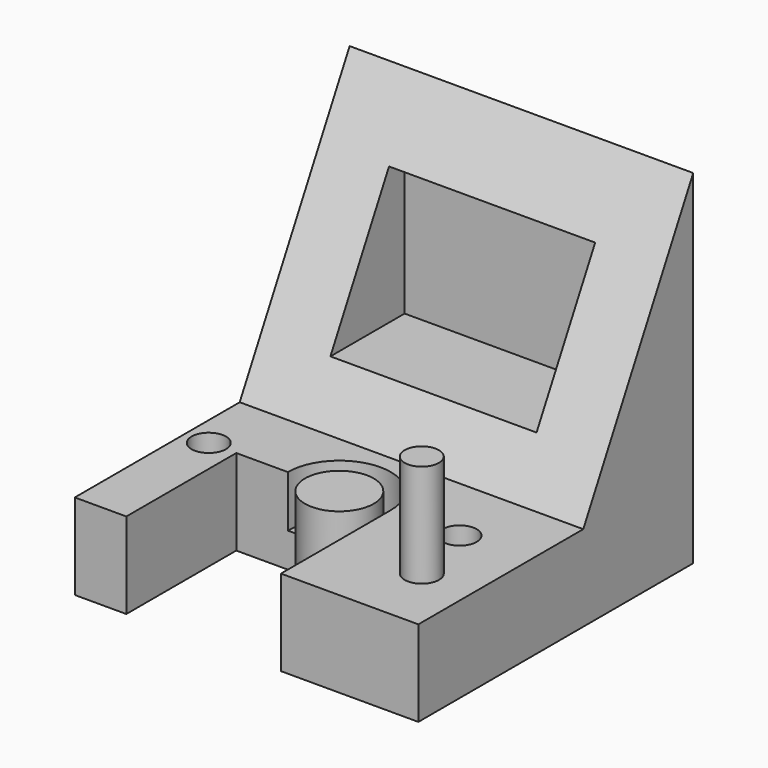
from build123d import *

# Parameters (mm, degrees)
F1_DEPTH  = 100
F2_R      = 5
F3_DEPTH  = 30
F4_R      = 5
F5_DEPTH  = 20
F6_W      = 60
F6_H      = 40
F7_DEPTH  = 95
F8_W      = 45
F8_H      = 40
F9_DEPTH  = 25
F10_R     = 15
F11_DEPTH = 15
F12_R     = 10
F13_DEPTH = 25


with BuildPart() as f1:
    # F0 (on Right) → F1 (new body)
    with BuildSketch(Plane.YZ):
        Polygon((0, 25), (0, 0), (100, 0), (100, 100), (60, 25), align=None)
    extrude(amount=F1_DEPTH)

    # F2 (on face) → F3 (join)
    with BuildSketch(Plane.XY.offset(25)):
        with Locations((85, 20)):
            Circle(F2_R)
    extrude(amount=F3_DEPTH)

    # F4 (on face) → F5 (cut)
    with BuildSketch(Plane.XY.offset(25)):
        with Locations((7, 40)):
            Circle(F4_R)
        with Locations((80, 40)):
            Circle(F4_R)
    extrude(amount=-F5_DEPTH, mode=Mode.SUBTRACT)

    # F6 (on Front) → F7 (cut)
    with BuildSketch(Plane.XZ):
        with Locations((50, 60)):
            Rectangle(F6_W, F6_H)
    extrude(amount=-F7_DEPTH, mode=Mode.SUBTRACT)

    # F8 (on face) → F9 (cut)
    with BuildSketch(Plane.XY.offset(25)):
        with Locations((37.5, 20)):
            Rectangle(F8_W, F8_H)
    extrude(amount=-F9_DEPTH, mode=Mode.SUBTRACT)

    # F10 (on face) → F11 (cut)
    with BuildSketch(Plane.XY.offset(25)):
        with Locations((45, 40)):
            Circle(F10_R)
    extrude(amount=-F11_DEPTH, mode=Mode.SUBTRACT)

    # F12 (on face) → F13 (join)
    with BuildSketch(Plane.XY.offset(25)):
        with Locations((45, 40)):
            Circle(F12_R)
    extrude(amount=-F13_DEPTH)


solid = f1.part
